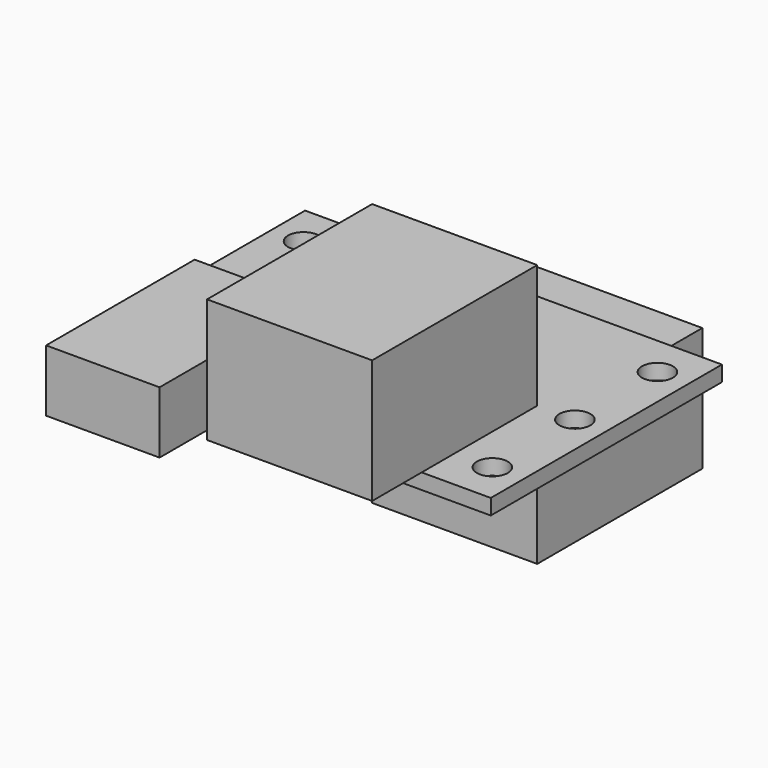
from build123d import *

# Parameters (mm, degrees)
F0_W     = 40.4
F0_H     = 28
F0_R     = 1.5
F1_DEPTH = 1.5
F2_W     = 16
F2_H     = 20
F3_DEPTH = 12
F4_W     = 16
F4_H     = 20
F5_DEPTH = 12
F6_W     = 11
F6_H     = 18
F7_DEPTH = 6


with BuildPart() as f1:
    # F0 (on Top) → F1 (new body)
    with BuildSketch(Plane.XY):
        Rectangle(F0_W, F0_H)
        with Locations((-17.15, -10)):
            Circle(F0_R, mode=Mode.SUBTRACT)
        with Locations((17.15, -10)):
            Circle(F0_R, mode=Mode.SUBTRACT)
        with Locations((-17.15, 0)):
            Circle(F0_R, mode=Mode.SUBTRACT)
        with Locations((-17.15, 10)):
            Circle(F0_R, mode=Mode.SUBTRACT)
        with Locations((17.15, 0)):
            Circle(F0_R, mode=Mode.SUBTRACT)
        with Locations((17.15, 10)):
            Circle(F0_R, mode=Mode.SUBTRACT)
    extrude(amount=F1_DEPTH)


with BuildPart() as f3:
    # F2 (on face) → F3 (new body)
    with BuildSketch(Plane(origin=(0, 0, 0), x_dir=(1, 0, 0), z_dir=(0, 0, -1))):
        with Locations((5.5, -10)):
            Rectangle(F2_W, F2_H)
    extrude(amount=F3_DEPTH)


with BuildPart() as f5:
    # F4 (on face) → F5 (new body)
    with BuildSketch(Plane.XY.offset(1.5)):
        with Locations((5.5, -10)):
            Rectangle(F4_W, F4_H)
    extrude(amount=F5_DEPTH)


with BuildPart() as f7:
    # F6 (on face) → F7 (new body)
    with BuildSketch(Plane.XY.offset(1.5)):
        with Locations((-9, -15.5)):
            Rectangle(F6_W, F6_H)
    extrude(amount=F7_DEPTH)


solid = Compound([f1.part, f3.part, f5.part, f7.part])
